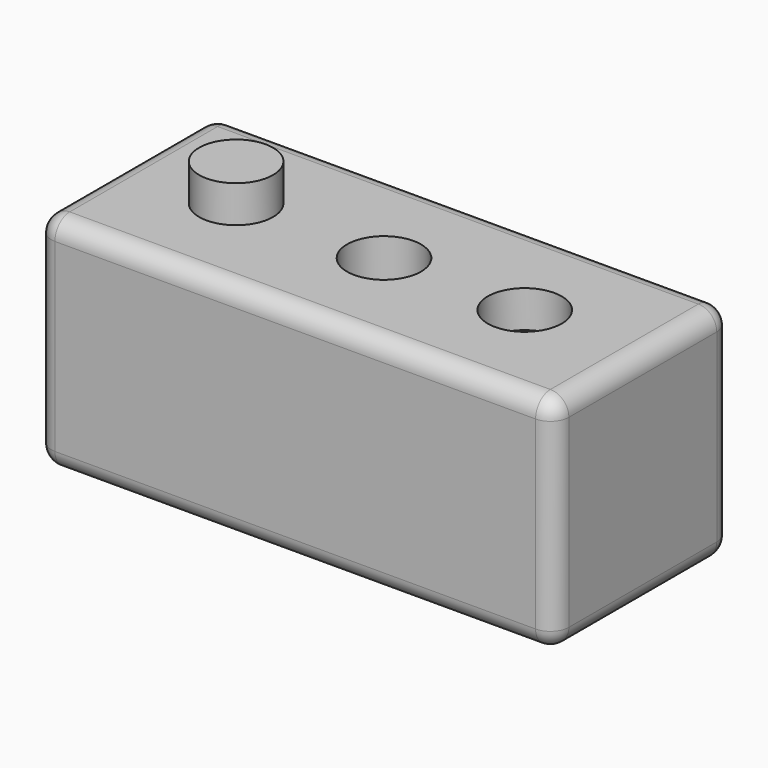
from build123d import *

# Parameters (mm, degrees)
F0_W     = 140
F0_H     = 60
F1_DEPTH = 60
F2_R     = 10
F5_DEPTH = 10
F3_R     = 10
F6_DEPTH = 10
F4_R     = 10
F7_DEPTH = 877
F8_R     = 5


with BuildPart() as f1:
    # F0 (on Top) → F1 (new body)
    with BuildSketch(Plane.XY):
        Rectangle(F0_W, F0_H)
    extrude(amount=F1_DEPTH)

    # F2 (on face) → F5 (join)
    with BuildSketch(Plane.XY.offset(60)):
        with Locations((-40, 0)):
            Circle(F2_R)
    extrude(amount=F5_DEPTH)

    # F3 (on face) → F6 (cut)
    with BuildSketch(Plane.XY.offset(60)):
        with Locations((38.061067, 0)):
            Circle(F3_R)
    extrude(amount=-F6_DEPTH, mode=Mode.SUBTRACT)

    # F4 (on face) → F7 (cut)
    with BuildSketch(Plane.XY.offset(60)):
        Circle(F4_R)
    extrude(amount=-F7_DEPTH, mode=Mode.SUBTRACT)

    # F8
    f8_edges = [f1.edges().sort_by_distance(p)[0] for p in [
        (0, -30, 60),
        (0, 30, 60),
        (-70, 0, 60),
        (70, 0, 60),
        (-70, -30, 30),
        (-70, 30, 30),
        (-70, 0, 0),
        (70, -30, 30),
        (70, 0, 0),
        (70, 30, 30),
        (0, -30, 0),
        (0, 30, 0),
    ]]
    fillet(f8_edges, radius=F8_R)


solid = f1.part
